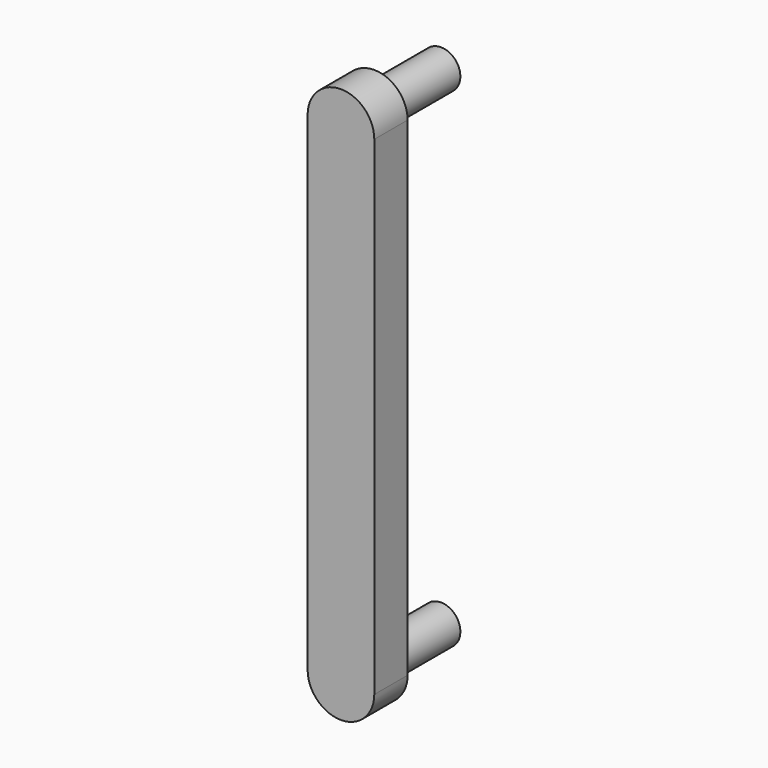
from build123d import *

# Parameters (mm, degrees)
F0_R     = 0.7
F1_DEPTH = 1.5
F2_DEPTH = 3


with BuildPart() as f1:
    # F0 (on Front) → F1 (new body)
    with BuildSketch(Plane.XZ):
        with BuildLine():
            Line((1.2, -8.8), (1.2, 0))
            Line((1.2, 0), (1.2, 8.8))
            ThreePointArc((1.2, 8.8), (0, 10), (-1.2, 8.8))
            Line((-1.2, 8.8), (-1.2, 0))
            Line((-1.2, 0), (-1.2, -8.8))
            ThreePointArc((-1.2, -8.8), (0, -10), (1.2, -8.8))
        make_face()
        with Locations((0, -8.8)):
            Circle(F0_R, mode=Mode.SUBTRACT)
        with Locations((0, 8.8)):
            Circle(F0_R, mode=Mode.SUBTRACT)
        with Locations((0, 8.8)):
            Circle(F0_R)
        with Locations((0, -8.8)):
            Circle(F0_R)
    extrude(amount=F1_DEPTH)

    # F0 (on Front) → F2 (join)
    with BuildSketch(Plane.XZ):
        with Locations((0, -8.8)):
            Circle(F0_R)
        with Locations((0, 8.8)):
            Circle(F0_R)
    extrude(amount=-F2_DEPTH)


solid = f1.part
